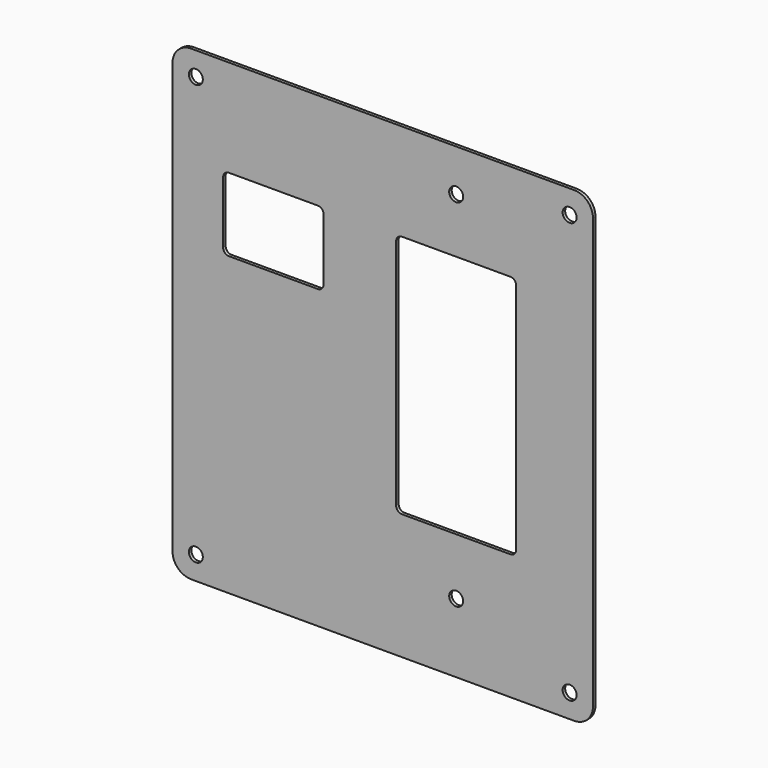
from build123d import *

# Parameters (mm, degrees)
F0_W     = 114.3
F0_H     = 127
F1_DEPTH = 0.8636
F3_DEPTH = 0.8636
F4_R     = 5.08
F6_D     = 3.7973
F8_D     = 3.7973


with BuildPart() as f1:
    # F0 (on Front) → F1 (new body)
    with BuildSketch(Plane.XZ):
        Rectangle(F0_W, F0_H)
    extrude(amount=-F1_DEPTH)

    # F2 (on face) → F3 (cut, through all)
    with BuildSketch(Plane.XZ):
        with BuildLine():
            ThreePointArc((-16.0869264489, 35.5412906039), (-16.5518944338, 36.663822619), (-17.6744264489, 37.1287906039))
            Line((-17.6744264489, 37.1287906039), (-41.8044264489, 37.1287906039))
            ThreePointArc((-41.8044264489, 37.1287906039), (-42.9269584641, 36.663822619), (-43.3919264489, 35.5412906039))
            Line((-43.3919264489, 35.5412906039), (-43.3919264489, 18.7518906039))
            ThreePointArc((-43.3919264489, 18.7518906039), (-42.9269584641, 17.6293585888), (-41.8044264489, 17.1643906039))
            Line((-41.8044264489, 17.1643906039), (-17.6744264489, 17.1643906039))
            ThreePointArc((-17.6744264489, 17.1643906039), (-16.5518944338, 17.6293585888), (-16.0869264489, 18.7518906039))
            Line((-16.0869264489, 18.7518906039), (-16.0869264489, 35.5412906039))
        make_face()
        with BuildLine():
            ThreePointArc((36.2763346143, 35.5412906039), (35.8113666294, 36.663822619), (34.6888346143, 37.1287906039))
            Line((34.6888346143, 37.1287906039), (5.2248346143, 37.1287906039))
            ThreePointArc((5.2248346143, 37.1287906039), (4.1023025991, 36.663822619), (3.6373346143, 35.5412906039))
            Line((3.6373346143, 35.5412906039), (3.6373346143, -27.7047093961))
            ThreePointArc((3.6373346143, -27.7047093961), (4.1023025991, -28.8272414112), (5.2248346143, -29.2922093961))
            Line((5.2248346143, -29.2922093961), (34.6888346143, -29.2922093961))
            ThreePointArc((34.6888346143, -29.2922093961), (35.8113666294, -28.8272414112), (36.2763346143, -27.7047093961))
            Line((36.2763346143, -27.7047093961), (36.2763346143, 35.5412906039))
        make_face()
    extrude(amount=-F3_DEPTH, mode=Mode.SUBTRACT)

    # F4
    f4_edges = [f1.edges().sort_by_distance(p)[0] for p in [
        (-57.15, 0.4318, 63.5),
        (57.15, 0.4318, 63.5),
        (57.15, 0.4318, -63.5),
        (-57.15, 0.4318, -63.5),
    ]]
    fillet(f4_edges, radius=F4_R)

    # F6 (through all)
    with Locations(Plane.XZ):
        with Locations((19.9568346143, 52.0639906039), (19.9568346143, -44.6846093961)):
            Hole(F6_D / 2)

    # F8 (through all)
    with Locations(Plane.XZ):
        with Locations((-50.8, 57.15), (50.8, 57.15), (50.8, -57.15), (-50.8, -57.15)):
            Hole(F8_D / 2)


solid = f1.part
